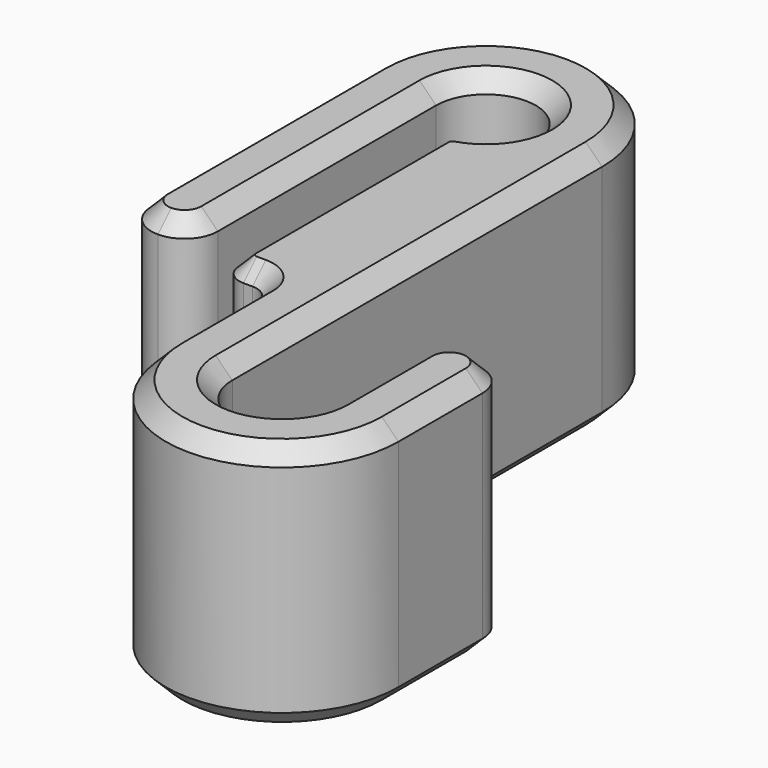
from build123d import *

# Parameters (mm, degrees)
F1_DEPTH = 15
F2_SIZE  = 1


with BuildPart() as f1:
    # F0 (on Top) → F1 (new body)
    with BuildSketch(Plane.XY):
        with BuildLine():
            ThreePointArc((-8, 8.423196), (-8.585786, 7.008983), (-10, 6.423196))
            Line((-10, 6.423196), (-10, -7.990119))
            Line((-10, -7.990119), (-10, -9.990119))
            ThreePointArc((-10, -9.990119), (-8.585786, -9.404332), (-8, -7.990119))
            Line((-8, -7.990119), (-8, 8.423196))
        make_face()
        with BuildLine():
            Line((-10, -7.990119), (-10, 6.423196))
            ThreePointArc((-10, 6.423196), (-11.414214, 7.008983), (-12, 8.423196))
            Line((-12, 8.423196), (-12, -7.990119))
            ThreePointArc((-12, -7.990119), (-11.414214, -9.404332), (-10, -9.990119))
            Line((-10, -9.990119), (-10, -7.990119))
        make_face()
        with BuildLine():
            Line((-10, 6.423196), (-10, 8.423196))
            ThreePointArc((-10, 8.423196), (-9.898979, 9.423196), (-9.6, 10.382788))
            ThreePointArc((-9.6, 10.382788), (-11.264911, 9.97239), (-12, 8.423196))
            ThreePointArc((-12, 8.423196), (-11.414214, 7.008983), (-10, 6.423196))
        make_face()
        with BuildLine():
            ThreePointArc((-9.6, 10.382788), (-9.898979, 9.423196), (-10, 8.423196))
            Line((-10, 8.423196), (-10, 6.423196))
            ThreePointArc((-10, 6.423196), (-8.585786, 7.008983), (-8, 8.423196))
            ThreePointArc((-8, 8.423196), (-8.450807, 9.688108), (-9.6, 10.382788))
        make_face()
        with BuildLine():
            ThreePointArc((-0.4, 10.382788), (-5, 13.423196), (-9.6, 10.382788))
            ThreePointArc((-9.6, 10.382788), (-8.450807, 9.688108), (-8, 8.423196))
            ThreePointArc((-8, 8.423196), (-5, 11.423196), (-2, 8.423196))
            ThreePointArc((-2, 8.423196), (-1.549193, 9.688108), (-0.4, 10.382788))
        make_face()
        with BuildLine():
            ThreePointArc((-12, 8.423196), (-11.264911, 9.97239), (-9.6, 10.382788))
            ThreePointArc((-9.6, 10.382788), (-5, 13.423196), (-0.4, 10.382788))
            ThreePointArc((-0.4, 10.382788), (1.264911, 9.97239), (2, 8.423196))
            ThreePointArc((2, 8.423196), (-5, 15.423196), (-12, 8.423196))
        make_face()
        with BuildLine():
            ThreePointArc((2, 8.423196), (1.264911, 9.97239), (-0.4, 10.382788))
            ThreePointArc((-0.4, 10.382788), (-0.101021, 9.423196), (0, 8.423196))
            Line((0, 8.423196), (0, 6.423196))
            ThreePointArc((0, 6.423196), (1.414214, 7.008983), (2, 8.423196))
        make_face()
        with BuildLine():
            ThreePointArc((0, 8.423196), (-0.101021, 9.423196), (-0.4, 10.382788))
            ThreePointArc((-0.4, 10.382788), (-1.549193, 9.688108), (-2, 8.423196))
            ThreePointArc((-2, 8.423196), (-1.414214, 7.008983), (0, 6.423196))
            Line((0, 6.423196), (0, 8.423196))
        make_face()
        with BuildLine():
            ThreePointArc((0, 6.423196), (-1.414214, 7.008983), (-2, 8.423196))
            ThreePointArc((-2, 8.423196), (-2.589872, 6.63678), (-4.127523, 5.552868))
            ThreePointArc((-4.127523, 5.552868), (-4.758099, 5.108366), (-5, 4.375774))
            Line((-5, 4.375774), (-5, -10.118682))
            ThreePointArc((-5, -10.118682), (-4.639662, -10.988615), (-3.769728, -11.348953))
            Line((-3.769728, -11.348953), (-3.230272, -11.348953))
            ThreePointArc((-3.230272, -11.348953), (-2.360338, -11.709292), (-2, -12.579225))
            Line((-2, -12.579225), (-2, -19.403434))
            ThreePointArc((-2, -19.403434), (-1.414214, -17.98922), (0, -17.403434))
            Line((0, -17.403434), (0, 6.423196))
        make_face()
        with BuildLine():
            Line((2, -19.403434), (2, 8.423196))
            ThreePointArc((2, 8.423196), (1.414214, 7.008983), (0, 6.423196))
            Line((0, 6.423196), (0, -17.403434))
            ThreePointArc((0, -17.403434), (1.414214, -17.98922), (2, -19.403434))
        make_face()
        with BuildLine():
            ThreePointArc((0.4, -21.363025), (1.549193, -20.668345), (2, -19.403434))
            ThreePointArc((2, -19.403434), (1.414214, -17.98922), (0, -17.403434))
            Line((0, -17.403434), (0, -19.403434))
            ThreePointArc((0, -19.403434), (0.101021, -20.403434), (0.4, -21.363025))
        make_face()
        with BuildLine():
            Line((0, -19.403434), (0, -17.403434))
            ThreePointArc((0, -17.403434), (-1.414214, -17.98922), (-2, -19.403434))
            ThreePointArc((-2, -19.403434), (-1.264911, -20.952627), (0.4, -21.363025))
            ThreePointArc((0.4, -21.363025), (0.101021, -20.403434), (0, -19.403434))
        make_face()
        with BuildLine():
            ThreePointArc((9.6, -21.363025), (5, -24.403434), (0.4, -21.363025))
            ThreePointArc((0.4, -21.363025), (-1.264911, -20.952627), (-2, -19.403434))
            ThreePointArc((-2, -19.403434), (5, -26.403434), (12, -19.403434))
            ThreePointArc((12, -19.403434), (11.264911, -20.952627), (9.6, -21.363025))
        make_face()
        with BuildLine():
            ThreePointArc((8, -19.403434), (5, -22.403434), (2, -19.403434))
            ThreePointArc((2, -19.403434), (1.549193, -20.668345), (0.4, -21.363025))
            ThreePointArc((0.4, -21.363025), (5, -24.403434), (9.6, -21.363025))
            ThreePointArc((9.6, -21.363025), (8.450807, -20.668345), (8, -19.403434))
        make_face()
        with BuildLine():
            ThreePointArc((10, -17.403434), (8.585786, -17.98922), (8, -19.403434))
            ThreePointArc((8, -19.403434), (8.450807, -20.668345), (9.6, -21.363025))
            ThreePointArc((9.6, -21.363025), (9.898979, -20.403434), (10, -19.403434))
            Line((10, -19.403434), (10, -17.403434))
        make_face()
        with BuildLine():
            ThreePointArc((10, -19.403434), (9.898979, -20.403434), (9.6, -21.363025))
            ThreePointArc((9.6, -21.363025), (11.264911, -20.952627), (12, -19.403434))
            ThreePointArc((12, -19.403434), (11.414214, -17.98922), (10, -17.403434))
            Line((10, -17.403434), (10, -19.403434))
        make_face()
        with BuildLine():
            Line((10, -13.086037), (10, -17.403434))
            ThreePointArc((10, -17.403434), (11.414214, -17.98922), (12, -19.403434))
            Line((12, -19.403434), (12, -13.086037))
            ThreePointArc((12, -13.086037), (11.414214, -11.671824), (10, -11.086037))
            Line((10, -11.086037), (10, -13.086037))
        make_face()
        with BuildLine():
            Line((8, -13.086037), (8, -19.403434))
            ThreePointArc((8, -19.403434), (8.585786, -17.98922), (10, -17.403434))
            Line((10, -17.403434), (10, -13.086037))
            Line((10, -13.086037), (10, -11.086037))
            ThreePointArc((10, -11.086037), (8.585786, -11.671824), (8, -13.086037))
        make_face()
        with BuildLine():
            ThreePointArc((0, 8.423196), (-0.101021, 9.423196), (-0.4, 10.382788))
            ThreePointArc((-0.4, 10.382788), (-1.549193, 9.688108), (-2, 8.423196))
            ThreePointArc((-2, 8.423196), (-1.414214, 7.008983), (0, 6.423196))
            Line((0, 6.423196), (0, 8.423196))
        make_face()
    extrude(amount=F1_DEPTH)

    # F2
    f2_edges = [f1.edges().sort_by_distance(p)[0] for p in [
        (-5, 15.423196, 15),
        (-12, 0.216539, 15),
        (-10, -9.990119, 15),
        (-8, 0.216539, 15),
        (-3.213583, 10.833324, 15),
        (-4.758099, 5.108366, 15),
        (-5, -2.871454, 15),
        (-4.639662, -10.988615, 15),
        (-3.5, -11.348953, 15),
        (-2.360338, -11.709292, 15),
        (-2, -15.991329, 15),
        (5, -26.403434, 15),
        (12, -16.244735, 15),
        (10, -11.086037, 15),
        (8, -16.244735, 15),
        (5, -22.403434, 15),
        (2, -5.490119, 15),
        (-5, 15.423196, 0),
        (-12, 0.216539, 0),
        (-10, -9.990119, 0),
        (-8, 0.216539, 0),
        (-3.213583, 10.833324, 0),
        (-4.758099, 5.108366, 0),
        (-5, -2.871454, 0),
        (-4.639662, -10.988615, 0),
        (-3.5, -11.348953, 0),
        (-2.360338, -11.709292, 0),
        (-2, -15.991329, 0),
        (5, -26.403434, 0),
        (12, -16.244735, 0),
        (10, -11.086037, 0),
        (8, -16.244735, 0),
        (5, -22.403434, 0),
        (2, -5.490119, 0),
    ]]
    chamfer(f2_edges, length=F2_SIZE)


solid = f1.part
